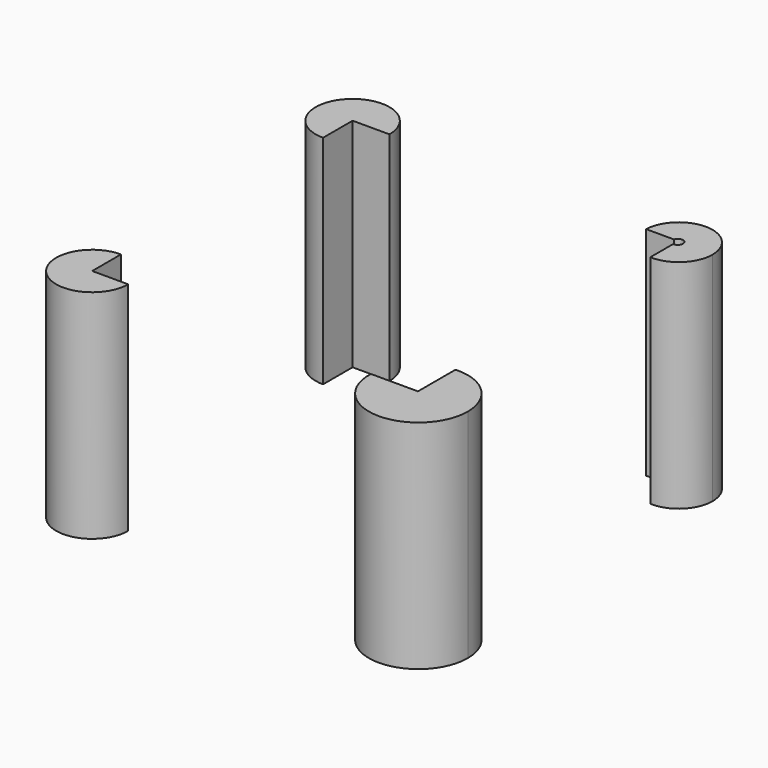
from build123d import *

# Parameters (mm, degrees)
F1_DEPTH = 101.6


with BuildPart() as f1:
    # F0 (on Top) → F1 (new body)
    with BuildSketch(Plane.XY):
        with BuildLine():
            Line((-76.2324035168, 59.2235147336), (-76.2324035168, 76.4990895987))
            Line((-76.2324035168, 76.4990895987), (-58.9568286517, 76.4990895987))
            ThreePointArc((-58.9568286517, 76.4990895987), (-88.4480796528, 88.7147657347), (-76.2324035168, 59.2235147336))
        make_face()
    extrude(amount=F1_DEPTH)


with BuildPart() as f1b:
    # F0 (on Top) → F1, piece 2 (new body)
    with BuildSketch(Plane.XY):
        with BuildLine():
            ThreePointArc((92.7193677561, 75.8735761046), (77.2356371082, 91.6670271799), (61.1386597157, 76.4990895987))
            Line((61.1386597157, 76.4990895987), (74.1489473443, 76.4990895987))
            ThreePointArc((74.1489473443, 76.4990895987), (76.822136609, 78.2481926071), (78.9207310251, 75.8396238089))
            ThreePointArc((78.9207310251, 75.8396238089), (78.1152223388, 74.0317847292), (76.2324035168, 73.4217686106))
            Line((76.2324035168, 73.4217686106), (76.2324035168, 60.0921224815))
            ThreePointArc((76.2324035168, 60.0921224815), (87.8458398895, 64.4622410788), (92.7193677561, 75.8735761046))
        make_face()
    extrude(amount=F1_DEPTH)


with BuildPart() as f1c:
    # F0 (on Top) → F1, piece 3 (new body)
    with BuildSketch(Plane.XY):
        with BuildLine():
            Line((-76.2324035168, -75.833261013), (-76.2324035168, -58.9815478394))
            ThreePointArc((-76.2324035168, -58.9815478394), (-88.1483641764, -87.7492216727), (-59.3806903431, -75.833261013))
            Line((-59.3806903431, -75.833261013), (-76.2324035168, -75.833261013))
        make_face()
    extrude(amount=F1_DEPTH)


with BuildPart() as f1d:
    # F0 (on Top) → F1, piece 4 (new body)
    with BuildSketch(Plane.XY):
        with BuildLine():
            ThreePointArc((100.451426673, -76.9730806351), (93.2870674408, -60.2374619665), (76.2324035168, -53.8697768401))
            Line((76.2324035168, -53.8697768401), (76.2324035168, -75.833261013))
            Line((76.2324035168, -75.833261013), (54.2215230223, -75.833261013))
            ThreePointArc((54.2215230223, -75.833261013), (76.7523404516, -100.0950570878), (100.451426673, -76.9730806351))
        make_face()
    extrude(amount=F1_DEPTH)


solid = Compound([f1.part, f1b.part, f1c.part, f1d.part])
